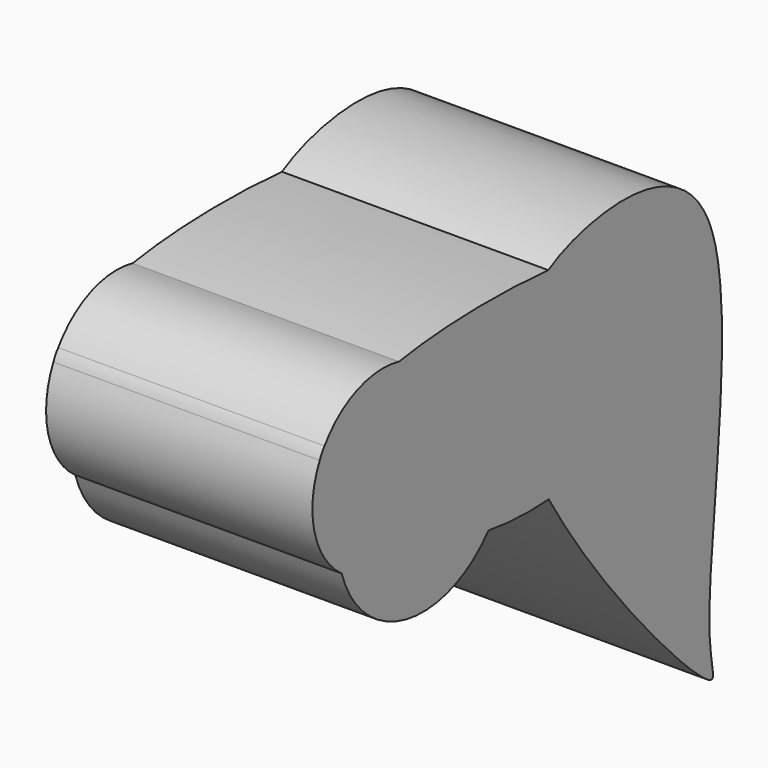
from build123d import *

# Parameters (mm, degrees)
F1_DEPTH = 25.4


with BuildPart() as f1:
    # F0 (on Right) → F1 (new body)
    with BuildSketch(Plane.YZ):
        with BuildLine():
            add(Edge.make_bspline(
                [(-19.2516709124, 42.2422844533), (-25.4180651929, 42.7428924713), (-31.9312076278, 42.6146347321), (-37.0557698194, 41.7939585518)],
                knots=[0.779023836, 0.779023836, 0.779023836, 0.779023836, 0.900186151, 0.900186151, 0.900186151, 0.900186151], degree=3))
            add(Edge.make_bspline(
                [(-37.0557698194, 41.7939585518), (-41.2773982782, 41.1178832523), (-44.5566653921, 39.9718974982), (-45.9233932197, 38.3204706013)],
                knots=[0.900186151, 0.900186151, 0.900186151, 0.900186151, 1, 1, 1, 1], degree=3))
            ThreePointArc((-45.9233932197, 38.3204706013), (-46.2257538217, 37.8400514526), (-46.4950140005, 37.3403280809))
            add(Edge.make_bspline(
                [(-46.4950140005, 37.3403280809), (-47.125304192, 35.6266298388), (-46.1714074928, 33.5474887118), (-44.1539502727, 31.5068887672)],
                knots=[0.0187354852, 0.0187354852, 0.0187354852, 0.0187354852, 0.1125127868, 0.1125127868, 0.1125127868, 0.1125127868], degree=3))
            add(Edge.make_bspline(
                [(-44.1539502727, 31.5068887672), (-40.5919165932, 27.9039941648), (-33.7143787143, 24.4212464176), (-26.3868815692, 23.282187328)],
                knots=[0.1125127868, 0.1125127868, 0.1125127868, 0.1125127868, 0.2780865116, 0.2780865116, 0.2780865116, 0.2780865116], degree=3))
            add(Edge.make_bspline(
                [(-26.3868815692, 23.282187328), (-25.0127574411, 23.0685797963), (-22.6012399006, 22.8409760307), (-20.1989760382, 22.9056116045), (-19.1905778042, 22.9799334775)],
                knots=[0.2780865116, 0.2780865116, 0.2780865116, 0.2780865116, 0.3091365203, 0.3319573316, 0.3319573316, 0.3319573316, 0.3319573316], degree=3))
            add(Edge.make_bspline(
                [(-19.1905777925, 22.9799334911), (-21.5058229138, 26.8552819506), (-23.1967976321, 30.5877078512), (-23.5898643732, 33.5901193321)],
                knots=[0.9211133647, 0.9211133647, 0.9211133647, 0.9211133647, 1, 1, 1, 1], degree=3))
            add(Edge.make_bspline(
                [(-23.5898643732, 33.5901193321), (-24.1376398763, 37.7742623468), (-22.1647423287, 40.5406409998), (-19.2516709091, 42.2422844406)],
                knots=[0, 0, 0, 0, 0.1099359518, 0.1099359518, 0.1099359518, 0.1099359518], degree=3))
        make_face()
        with BuildLine():
            add(Edge.make_bspline(
                [(-37.0557698194, 41.7939585518), (-41.2773982782, 41.1178832523), (-44.5566653921, 39.9718974982), (-45.9233932197, 38.3204706013)],
                knots=[0.900186151, 0.900186151, 0.900186151, 0.900186151, 1, 1, 1, 1], degree=3))
            ThreePointArc((-37.0557698194, 41.7939585518), (-42.0286934036, 41.4335375195), (-45.9233932197, 38.3204706013))
        make_face()
        with BuildLine():
            ThreePointArc((-46.4950140005, 37.3403280809), (-46.2257538217, 37.8400514526), (-45.9233932197, 38.3204706013))
            add(Edge.make_bspline(
                [(-45.9233932197, 38.3204706013), (-46.179933863, 38.0104907283), (-46.3690902174, 37.6827027023), (-46.4950140005, 37.3403280809)],
                knots=[0, 0, 0, 0, 0.0187354852, 0.0187354852, 0.0187354852, 0.0187354852], degree=3))
        make_face()
        with BuildLine():
            add(Edge.make_bspline(
                [(-19.2516709091, 42.2422844406), (-17.4961367608, 43.2677633039), (-9.8677267463, 45.5915683384), (6.1925129739, 41.8340525506), (-1.8104152929, 5.3447987534), (2.355934836, -3.7635650252), (-12.8947889291, 12.4417941606), (-19.1905777925, 22.9799334911)],
                knots=[0.1099359518, 0.1099359518, 0.1099359518, 0.1099359518, 0.1761877836, 0.3509471381, 0.6213037996, 0.7065988862, 0.9211133647, 0.9211133647, 0.9211133647, 0.9211133647], degree=3))
            add(Edge.make_bspline(
                [(-19.1905778042, 22.9799334775), (-7.0912482036, 23.8716891432), (10.4890257051, 36.3613867908), (-10.4343655651, 41.5264668209), (-19.2516709124, 42.2422844533)],
                knots=[0.3319573316, 0.3319573316, 0.3319573316, 0.3319573316, 0.6057742709, 0.779023836, 0.779023836, 0.779023836, 0.779023836], degree=3))
        make_face()
        with BuildLine():
            add(Edge.make_bspline(
                [(-19.1905778042, 22.9799334775), (-7.0912482036, 23.8716891432), (10.4890257051, 36.3613867908), (-10.4343655651, 41.5264668209), (-19.2516709124, 42.2422844533)],
                knots=[0.3319573316, 0.3319573316, 0.3319573316, 0.3319573316, 0.6057742709, 0.779023836, 0.779023836, 0.779023836, 0.779023836], degree=3))
            add(Edge.make_bspline(
                [(-23.5898643732, 33.5901193321), (-24.1376398763, 37.7742623468), (-22.1647423287, 40.5406409998), (-19.2516709091, 42.2422844406)],
                knots=[0, 0, 0, 0, 0.1099359518, 0.1099359518, 0.1099359518, 0.1099359518], degree=3))
            add(Edge.make_bspline(
                [(-19.1905777925, 22.9799334911), (-21.5058229138, 26.8552819506), (-23.1967976321, 30.5877078512), (-23.5898643732, 33.5901193321)],
                knots=[0.9211133647, 0.9211133647, 0.9211133647, 0.9211133647, 1, 1, 1, 1], degree=3))
        make_face()
        with BuildLine():
            add(Edge.make_bspline(
                [(-46.4950140005, 37.3403280809), (-47.125304192, 35.6266298388), (-46.1714074928, 33.5474887118), (-44.1539502727, 31.5068887672)],
                knots=[0.0187354852, 0.0187354852, 0.0187354852, 0.0187354852, 0.1125127868, 0.1125127868, 0.1125127868, 0.1125127868], degree=3))
            ThreePointArc((-46.4950140005, 37.3403280809), (-47.1237278582, 31.580027774), (-43.8769457932, 26.7805749966))
            ThreePointArc((-43.8769457932, 26.7805749966), (-44.2957560659, 29.127303311), (-44.1539502727, 31.5068887672))
        make_face()
        with BuildLine():
            add(Edge.make_bspline(
                [(-44.1539502727, 31.5068887672), (-40.5919165932, 27.9039941648), (-33.7143787143, 24.4212464176), (-26.3868815692, 23.282187328)],
                knots=[0.1125127868, 0.1125127868, 0.1125127868, 0.1125127868, 0.2780865116, 0.2780865116, 0.2780865116, 0.2780865116], degree=3))
            ThreePointArc((-44.1539502727, 31.5068887672), (-44.2957560659, 29.127303311), (-43.8769457932, 26.7805749966))
            ThreePointArc((-43.8769457932, 26.7805749966), (-36.1788987701, 19.7970165972), (-26.3868815692, 23.282187328))
        make_face()
    extrude(amount=F1_DEPTH)


solid = f1.part
